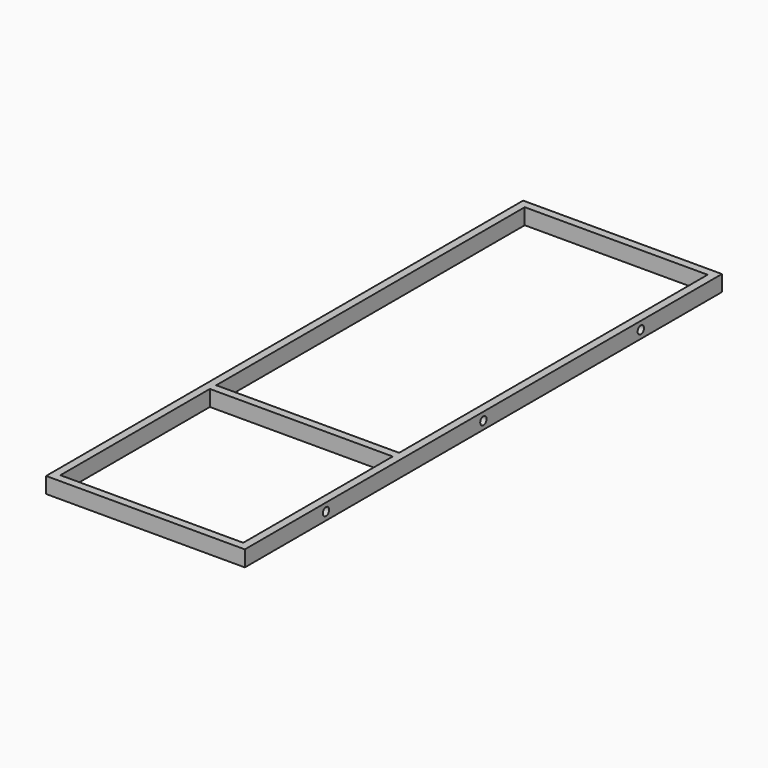
from build123d import *

# Parameters (mm, degrees)
F0_W     = 50
F0_H     = 150
F0_W_2   = 46
F0_H_2   = 47
F0_H_3   = 97
F1_DEPTH = 4
F2_R     = 1
F3_DEPTH = 25


with BuildPart() as f1:
    # F0 (on Top) → F1 (new body)
    with BuildSketch(Plane.XY):
        Rectangle(F0_W, F0_H)
        with Locations((0, -49.5)):
            Rectangle(F0_W_2, F0_H_2, mode=Mode.SUBTRACT)
        with Locations((0, 24.5)):
            Rectangle(F0_W_2, F0_H_3, mode=Mode.SUBTRACT)
    extrude(amount=F1_DEPTH)

    # F2 (on face) → F3 (cut)
    with BuildSketch(Plane.YZ.offset(25)):
        with Locations((-49.5, 2)):
            Circle(F2_R)
        with Locations((0, 2)):
            Circle(F2_R)
        with Locations((49.5, 2)):
            Circle(F2_R)
    extrude(amount=-F3_DEPTH, mode=Mode.SUBTRACT)


solid = f1.part
